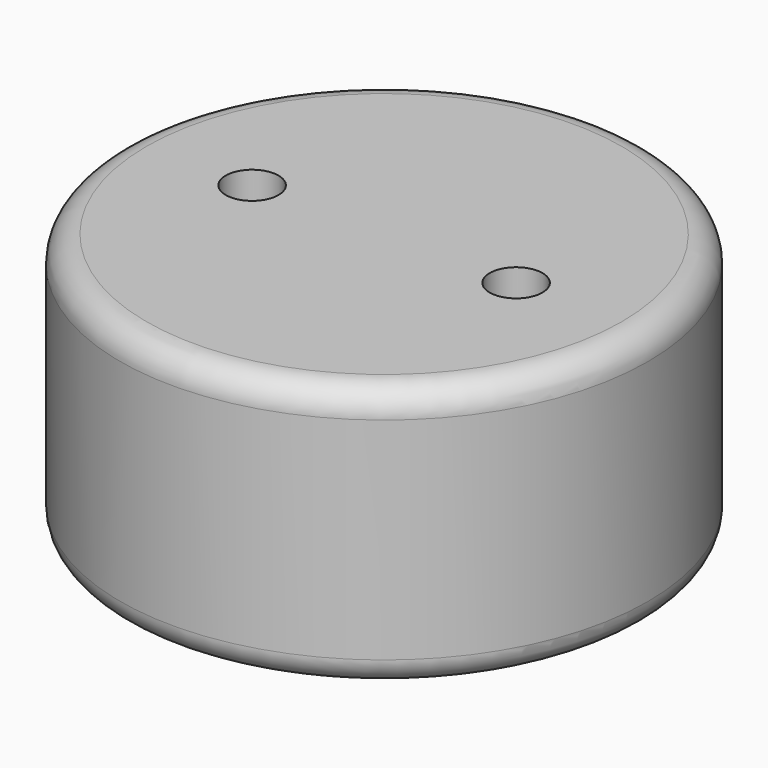
from build123d import *

# Parameters (mm, degrees)
SKETCH_R       = 1
EXTRUDE_DEPTH  = 10
CYLINDER_R     = 10
CYLINDER_DEPTH = 10
FILLET_R       = 1


with BuildPart() as extrude_body:
    # Sketch (on Face3 of Cylinder) → Extrude (new body)
    with BuildSketch(Plane(origin=(0, 0, 0), x_dir=(1, 0, 0), z_dir=(0, 0, -1))):
        with Locations((-5, 0)):
            Circle(SKETCH_R)
        with Locations((5, 0)):
            Circle(SKETCH_R)
    extrude(amount=-EXTRUDE_DEPTH)


with BuildPart() as fillet_body:
    # Cylinder → Cylinder (new body)
    with BuildSketch(Plane.XY):
        Circle(CYLINDER_R)
    extrude(amount=CYLINDER_DEPTH)

    # Cut: cut Extrude body
    add(extrude_body.part, mode=Mode.SUBTRACT)

    # Fillet
    fillet_edges = [fillet_body.edges().sort_by_distance(p)[0] for p in [
        (-10, 0, 10),
        (-10, 0, 0),
    ]]
    fillet(fillet_edges, radius=FILLET_R)


solid = fillet_body.part
